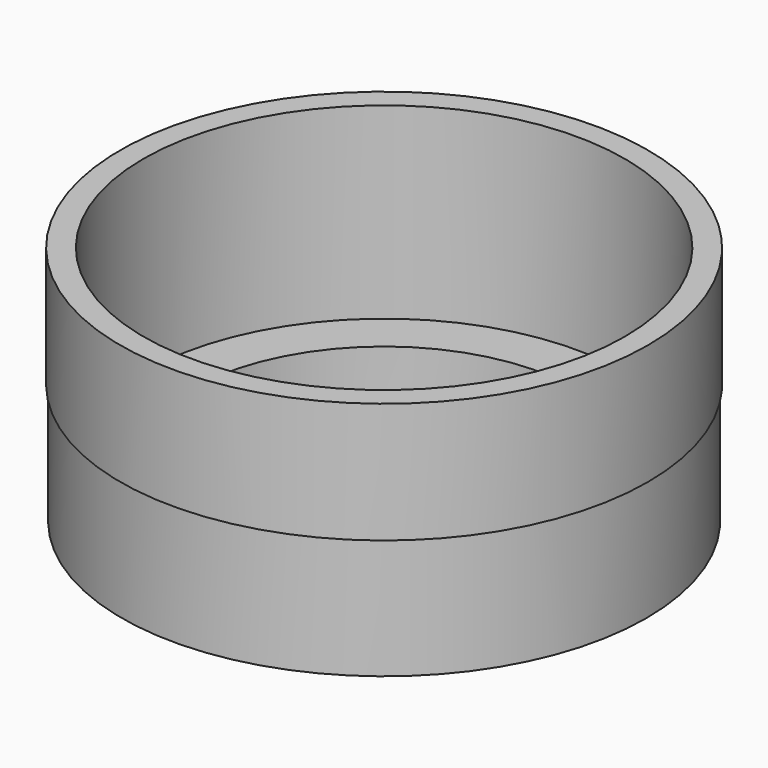
from build123d import *

# Parameters (mm, degrees)
F2_SCALE = 3


with BuildPart() as f1:
    # F0 (on Front) → F1 (revolve)
    with BuildSketch(Plane.XZ):
        Polygon((4.022, 1.1), (4.022, 0), (5.45, 0), (5.45, 2.5), (5.4823333333, 2.5), (5.4823333333, 5), (5, 5), (5, 1.1), align=None)
    revolve(axis=Axis((0, 0, 2.5), (0, 0, 1)))


with BuildPart() as f1_1:
    # F2: moved
    add(f1.part.scale(F2_SCALE))


solid = f1_1.part
